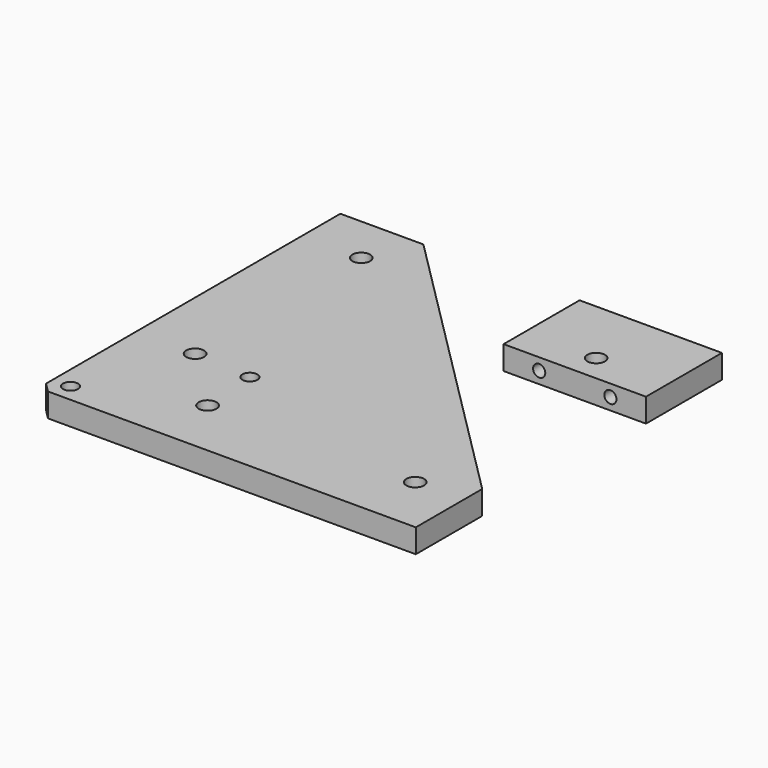
from build123d import *

# Parameters (mm, degrees)
F1_DEPTH  = 12.7
F2_R      = 4.7625
F2_R_2    = 4
F3_DEPTH  = 12.701
F4_SIZE   = 5.08
F7_DEPTH  = 12.7
F8_R      = 4
F9_DEPTH  = 14.942283
F11_W     = 76.2
F11_H     = 50.8
F11_R     = 4.7625
F12_DEPTH = 12.7
F13_R     = 3.25
F14_DEPTH = 50.8


with BuildPart() as f1:
    # F0 (on Top) → F1 (new body)
    with BuildSketch(Plane.XY):
        Polygon((0, 201.93), (0, 0), (201.93, 0), (201.93, 44.45), (44.45, 201.93), align=None)
    extrude(amount=F1_DEPTH)

    # F2 (on face) → F3 (cut, through all)
    with BuildSketch(Plane.XY.offset(12.7)):
        with Locations((65.0875, 31.75)):
            Circle(F2_R)
        with Locations((176.2125, 31.75)):
            Circle(F2_R)
        with Locations((31.75, 176.2125)):
            Circle(F2_R)
        with Locations((31.75, 65.0875)):
            Circle(F2_R)
        with Locations((9.525, 9.525)):
            Circle(F2_R_2)
        with Locations((62.865, 62.865)):
            Circle(F2_R_2)
    extrude(amount=-F3_DEPTH, mode=Mode.SUBTRACT)

    # F4
    f4_edges = [f1.edges().sort_by_distance(p)[0] for p in [
        (0, 0, 6.35),
    ]]
    chamfer(f4_edges, length=F4_SIZE)


with BuildPart() as f7:
    # F6 (on Top) → F7 (new body)
    with BuildSketch(Plane.XY):
        with BuildLine():
            Line((203.2, 203.2), (127, 203.2))
            Line((127, 203.2), (127, 190.5))
            Line((127, 190.5), (177.8, 190.5))
            ThreePointArc((177.8, 190.5), (186.780256, 186.780256), (190.5, 177.8))
            Line((190.5, 177.8), (190.5, 127))
            Line((190.5, 127), (203.2, 127))
            Line((203.2, 127), (203.2, 203.2))
        make_face()
    extrude(amount=F7_DEPTH)

    # F8 (on face) → F9 (cut, through all)
    with BuildSketch(Plane.YZ.offset(203.2)):
        with Locations((185.00598, 6.35)):
            Circle(F8_R)
        with Locations((166.6748, 6.35)):
            Circle(F8_R)
    extrude(amount=-F9_DEPTH, mode=Mode.SUBTRACT)


with BuildPart() as f12:
    # F11 (on face) → F12 (new body)
    with BuildSketch(Plane.XY):
        with Locations((165.1, 177.8)):
            Rectangle(F11_W, F11_H)
        with Locations((165.1, 166.6748)):
            Circle(F11_R, mode=Mode.SUBTRACT)
    extrude(amount=F12_DEPTH)

    # F13 (on face) → F14 (cut, through all)
    with BuildSketch(Plane(origin=(0, 203.2, 0), x_dir=(-1, 0, 0), z_dir=(0, 1, 0))):
        with Locations((-184.15, 6.35)):
            Circle(F13_R)
        with Locations((-146.05, 6.35)):
            Circle(F13_R)
    extrude(amount=-F14_DEPTH, mode=Mode.SUBTRACT)


solid = Compound([f1.part, f12.part])
